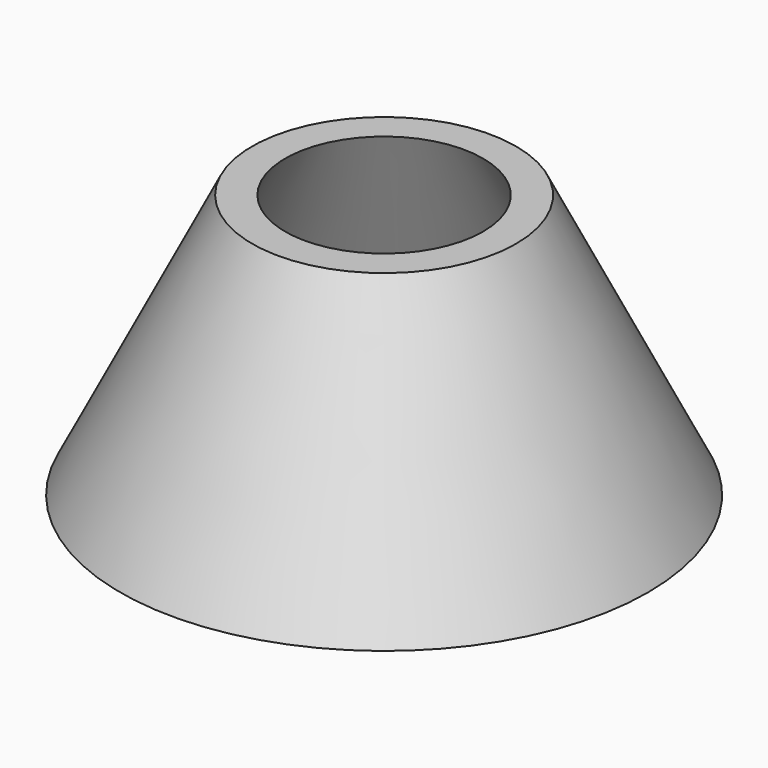
from build123d import *

# Parameters (mm, degrees)
F2_R = 25.4
F1_R = 12.7
F5_R = 22.225
F4_R = 9.525


with BuildPart() as f3:
    # F2 (on Top) → F3 section 0
    with BuildSketch(Plane.XY):
        Circle(F2_R)
    # F1 (on offset) → F3 section 1
    with BuildSketch(Plane.XY.offset(25.4)):
        Circle(F1_R)
    loft()

    # F5 (on face) → F6 section 0
    with BuildSketch(Plane(origin=(0, 0, 0), x_dir=(1, 0, 0), z_dir=(0, 0, -1))):
        Circle(F5_R)
    # F4 (on face) → F6 section 1
    with BuildSketch(Plane.XY.offset(25.4)):
        Circle(F4_R)
    loft(mode=Mode.SUBTRACT)


solid = f3.part
